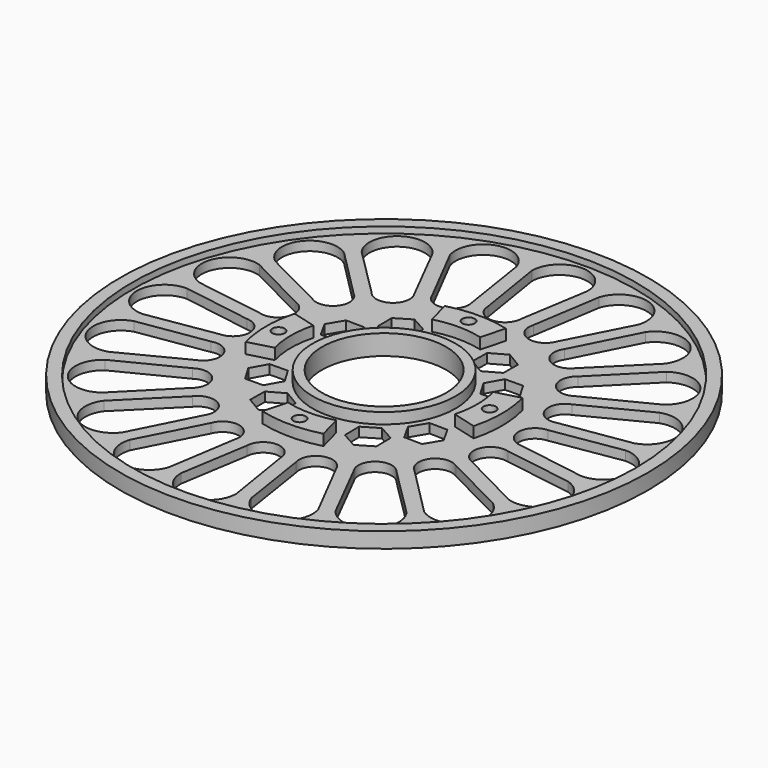
from build123d import *

# Parameters (mm, degrees)
SKETCH_R              = 85
SKETCH_R_2            = 20
PAD_DEPTH             = 3
SKETCH001_R           = 38
SKETCH001_R_2         = 30
PAD001_DEPTH          = 10
POCKET_DEPTH          = 10
POLARPATTERN_COUNT    = 4
SKETCH003_R           = 23
SKETCH003_R_2         = 20
PAD002_DEPTH          = 24.5
SKETCH004_R           = 2
POCKET001_DEPTH       = 496.968974
POLARPATTERN001_COUNT = 4
POCKET002_DEPTH       = 486.968974
POLARPATTERN002_COUNT = 20
POCKET003_DEPTH       = 3
POLARPATTERN003_COUNT = 4
POCKET004_DEPTH       = 486.968974
POLARPATTERN004_COUNT = 4
SKETCH008_R           = 85
SKETCH008_R_2         = 81
PAD003_DEPTH          = 2
SKETCH009_W           = 94.261318
SKETCH009_H           = 94.869446
POCKET005_DEPTH       = 21


with BuildPart() as part:
    # Sketch → Pad (new body)
    with BuildSketch(Plane.XY):
        Circle(SKETCH_R)
        Circle(SKETCH_R_2, mode=Mode.SUBTRACT)
    extrude(amount=PAD_DEPTH)

    # Sketch001 → Pad001 (new body)
    with BuildSketch(Plane.XY.offset(3)):
        Circle(SKETCH001_R)
        Circle(SKETCH001_R_2, mode=Mode.SUBTRACT)
    extrude(amount=PAD001_DEPTH)

    # Sketch002 → Pocket (cut)
    with BuildSketch(Plane.XY.offset(13)):
        Polygon((0, 0), (46.36444, 12.423314), (12.423314, 46.36444), align=None)
    pocket = extrude(amount=-POCKET_DEPTH, mode=Mode.SUBTRACT)

    # PolarPattern: Pocket ×4 about axis
    polarpattern_axis = Axis((0, 0, 13), (0, 0, 1))
    for i in range(1, POLARPATTERN_COUNT):
        add(pocket.rotate(polarpattern_axis, i * 360 / POLARPATTERN_COUNT), mode=Mode.SUBTRACT)

    # Sketch003 → Pad002 (new body)
    with BuildSketch(Plane.XY.offset(3)):
        Circle(SKETCH003_R)
        Circle(SKETCH003_R_2, mode=Mode.SUBTRACT)
    extrude(amount=PAD002_DEPTH)

    # Sketch004 → Pocket001 (cut, through all)
    with BuildSketch(Plane.XY.offset(13)):
        with Locations((0, 34)):
            Circle(SKETCH004_R)
    pocket001 = extrude(amount=-POCKET001_DEPTH, mode=Mode.SUBTRACT)

    # PolarPattern001: Pocket001 ×4 about axis
    polarpattern001_axis = Axis((0, 0, 13), (0, 0, 1))
    for i in range(1, POLARPATTERN001_COUNT):
        add(pocket001.rotate(polarpattern001_axis, i * 360 / POLARPATTERN001_COUNT), mode=Mode.SUBTRACT)

    # Sketch005 → Pocket002 (cut, through all)
    with BuildSketch(Plane.XY.offset(3)):
        with BuildLine():
            Line((-5.381135, 48.509831), (-8.935853, 70.62001))
            ThreePointArc((8.935853, 70.62001), (0, 79.627255), (-8.935853, 70.62001))
            Line((5.381135, 48.509831), (8.935853, 70.62001))
            ThreePointArc((-5.381135, 48.509831), (0, 43.263712), (5.381135, 48.509831))
        make_face()
    pocket002 = extrude(amount=-POCKET002_DEPTH, mode=Mode.SUBTRACT)

    # PolarPattern002: Pocket002 ×20 about axis
    polarpattern002_axis = Axis((0, 0, 3), (0, 0, 1))
    for i in range(1, POLARPATTERN002_COUNT):
        add(pocket002.rotate(polarpattern002_axis, i * 360 / POLARPATTERN002_COUNT), mode=Mode.SUBTRACT)

    # Sketch006 → Pocket003 (cut)
    with BuildSketch(Plane(origin=(0, 0, 0), x_dir=(1, 0, 0), z_dir=(0, 0, -1))):
        Polygon((2, 30.535898), (4, 34), (2, 37.464102), (-2, 37.464102), (-4, 34), (-2, 30.535898), align=None)
    pocket003 = extrude(amount=-POCKET003_DEPTH, mode=Mode.SUBTRACT)

    # PolarPattern003: Pocket003 ×4 about axis
    polarpattern003_axis = Axis((0, 0, 0), (0, 0, -1))
    for i in range(1, POLARPATTERN003_COUNT):
        add(pocket003.rotate(polarpattern003_axis, i * 360 / POLARPATTERN003_COUNT), mode=Mode.SUBTRACT)

    # Sketch007 → Pocket004 (cut, through all)
    with BuildSketch(Plane.XY.offset(3)):
        Polygon((15.192472, 19.854188), (20.254743, 22.688001), (20.331725, 28.488962), (15.346435, 31.456111), (10.284165, 28.622298), (10.207183, 22.821337), align=None)
        Polygon((22.821337, 10.207183), (28.622298, 10.284165), (31.456111, 15.346435), (28.488962, 20.331725), (22.688001, 20.254743), (19.854188, 15.192472), align=None)
    pocket004 = extrude(amount=-POCKET004_DEPTH, mode=Mode.SUBTRACT)

    # PolarPattern004: Pocket004 ×4 about axis
    polarpattern004_axis = Axis((0, 0, 3), (0, 0, 1))
    for i in range(1, POLARPATTERN004_COUNT):
        add(pocket004.rotate(polarpattern004_axis, i * 360 / POLARPATTERN004_COUNT), mode=Mode.SUBTRACT)

    # Sketch008 → Pad003 (new body)
    with BuildSketch(Plane.XY.offset(3)):
        Circle(SKETCH008_R)
        Circle(SKETCH008_R_2, mode=Mode.SUBTRACT)
    extrude(amount=PAD003_DEPTH)

    # Sketch009 → Pocket005 (cut)
    with BuildSketch(Plane.XY.offset(27.5)):
        with Locations((1.295431, 1.415859)):
            Rectangle(SKETCH009_W, SKETCH009_H)
    extrude(amount=-POCKET005_DEPTH, mode=Mode.SUBTRACT)


solid = part.part
